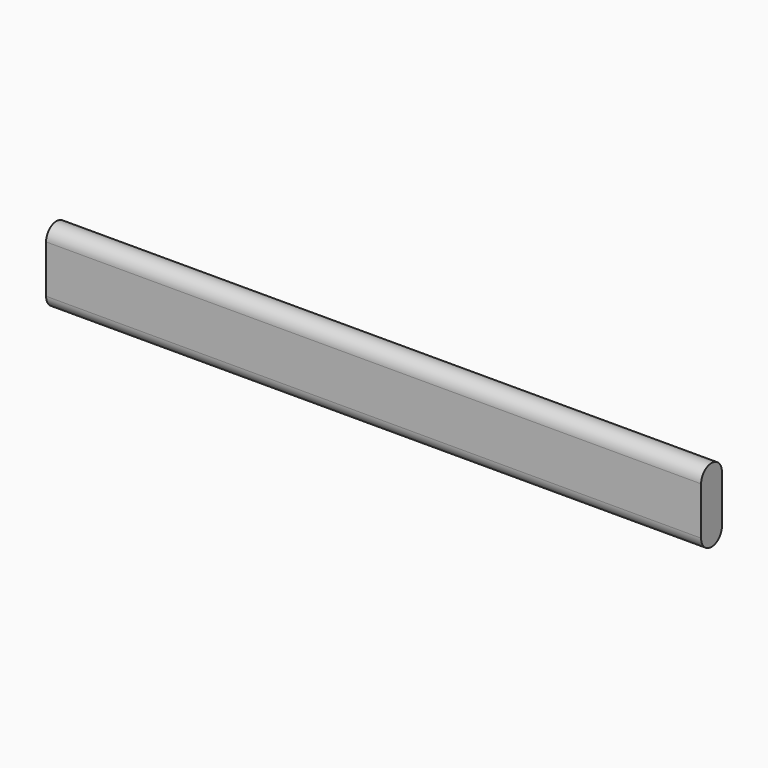
from build123d import *

# Parameters (mm, degrees)
F1_DEPTH = 90.424


with BuildPart() as f1:
    # F0 (on Right) → F1 (new body, symmetric)
    with BuildSketch(Plane.YZ):
        with BuildLine():
            Line((3.5941, -6.604), (3.5941, 6.604))
            ThreePointArc((3.5941, 6.604), (0, 10.1981), (-3.5941, 6.604))
            Line((-3.5941, 6.604), (-3.5941, -6.604))
            ThreePointArc((-3.5941, -6.604), (0, -10.1981), (3.5941, -6.604))
        make_face()
    extrude(amount=F1_DEPTH, both=True)


solid = f1.part
